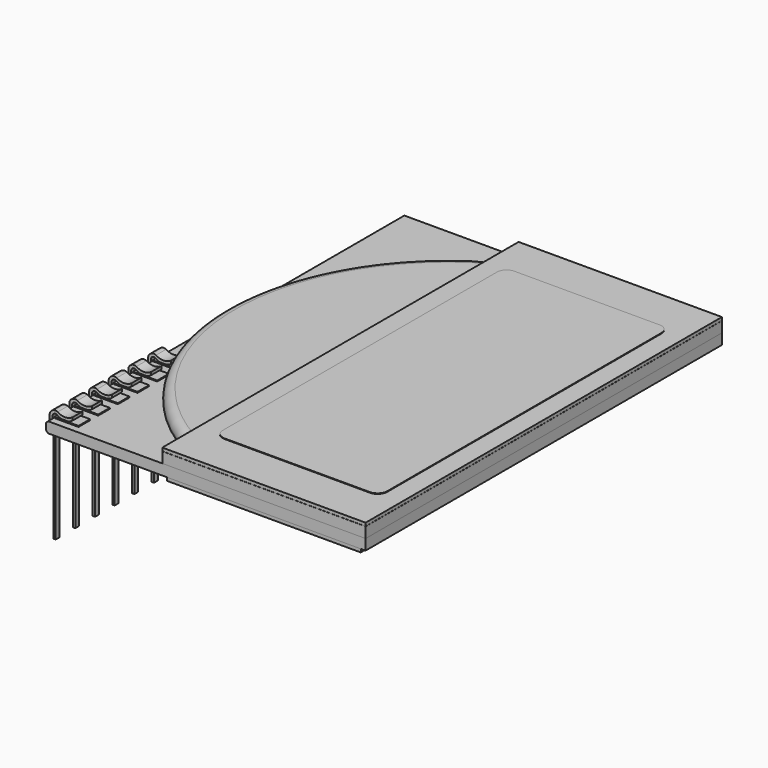
from build123d import *

# Parameters (mm, degrees)
SKETCH_W             = 20
SKETCH_H             = 46
PAD_DEPTH            = 0.33
BOX001_W             = 21
BOX001_H             = 46
BOX001_DEPTH         = 1.1
BOX002_W             = 21
BOX002_H             = 46
BOX002_DEPTH         = 0.33
BOX_W                = 33
BOX_H                = 46
BOX_DEPTH            = 1.1
CHAMFER_SIZE         = 0.2
CHAMFER001_SIZE      = 0.2
BOX003_W             = 25
BOX003_H             = 46
BOX003_DEPTH         = 1.1
CYLINDER_R           = 23
CYLINDER_DEPTH       = 1.1
FILLET_R             = 0.95
BOX011_W             = 0.25
BOX011_H             = 10
BOX011_DEPTH         = 0.48
PAD001_DEPTH         = 1.3
FUSION_ROLL_ANGLE    = 90
BOX012_W             = 2.5
BOX012_H             = 1.5
BOX012_DEPTH         = 0.1
BOX013_W             = 2.5
BOX013_H             = 1.5
BOX013_DEPTH         = 0.1
BOX014_W             = 2.5
BOX014_H             = 1.5
BOX014_DEPTH         = 0.1
BOX015_W             = 2.5
BOX015_H             = 1.5
BOX015_DEPTH         = 0.1
BOX016_W             = 2.5
BOX016_H             = 1.5
BOX016_DEPTH         = 0.1
BOX017_W             = 2.5
BOX017_H             = 1.5
BOX017_DEPTH         = 0.1
BOX018_W             = 0.25
BOX018_H             = 10
BOX018_DEPTH         = 0.48
PAD002_DEPTH         = 1.3
FUSION001_ROLL_ANGLE = 90
BOX019_W             = 0.25
BOX019_H             = 10
BOX019_DEPTH         = 0.48
PAD003_DEPTH         = 1.3
FUSION002_ROLL_ANGLE = 90
BOX020_W             = 0.25
BOX020_H             = 10
BOX020_DEPTH         = 0.48
PAD004_DEPTH         = 1.3
FUSION003_ROLL_ANGLE = 90
BOX021_W             = 0.25
BOX021_H             = 10
BOX021_DEPTH         = 0.48
PAD005_DEPTH         = 1.3
FUSION004_ROLL_ANGLE = 90
BOX022_W             = 0.25
BOX022_H             = 10
BOX022_DEPTH         = 0.48
PAD006_DEPTH         = 1.3
FUSION005_ROLL_ANGLE = 90
BOX023_W             = 0.25
BOX023_H             = 10
BOX023_DEPTH         = 0.48
PAD007_DEPTH         = 1.3
FUSION006_ROLL_ANGLE = 90
BOX024_W             = 8
BOX024_H             = 4
BOX024_DEPTH         = 1.1
FILLET004_R          = 1
FILLET005_R          = 1
BOX010_W             = 17
BOX010_H             = 37.4
BOX010_DEPTH         = 0.33
FILLET001_R          = 1
FILLET002_R          = 1
FILLET003_R          = 1
FILLET006_R          = 1


with BuildPart() as body:
    # Sketch → Pad (new body)
    with BuildSketch(Plane.XY):
        with Locations((22.65, 8.8)):
            Rectangle(SKETCH_W, SKETCH_H)
    extrude(amount=PAD_DEPTH)


with BuildPart() as kub001:
    # Box001 → Box001 (new body)
    with BuildSketch(Plane(origin=(12.15, -14.2, 1.43), x_dir=(1, 0, 0), z_dir=(0, 0, 1))):
        with Locations((10.5, 23)):
            Rectangle(BOX001_W, BOX001_H)
    extrude(amount=BOX001_DEPTH)


with BuildPart() as kub002:
    # Box002 → Box002 (new body)
    with BuildSketch(Plane(origin=(12.15, -14.2, 2.54), x_dir=(1, 0, 0), z_dir=(0, 0, 1))):
        with Locations((10.5, 23)):
            Rectangle(BOX002_W, BOX002_H)
    extrude(amount=BOX002_DEPTH)


with BuildPart() as chamfer001:
    # Box → Box (new body)
    with BuildSketch(Plane(origin=(0.15, -14.2, 0.33), x_dir=(1, 0, 0), z_dir=(0, 0, 1))):
        with Locations((16.5, 23)):
            Rectangle(BOX_W, BOX_H)
    extrude(amount=BOX_DEPTH)

    # Chamfer
    chamfer_edges = [chamfer001.edges().sort_by_distance(p)[0] for p in [
        (0.15, 8.8, 1.43),
    ]]
    chamfer(chamfer_edges, length=CHAMFER_SIZE)

    # Chamfer001
    chamfer001_edges = [chamfer001.edges().sort_by_distance(p)[0] for p in [
        (0.15, 8.8, 0.33),
    ]]
    chamfer(chamfer001_edges, length=CHAMFER001_SIZE)


with BuildPart() as kub003:
    # Box003 → Box003 (new body)
    with BuildSketch(Plane(origin=(-20.85, -14.2, 1.43), x_dir=(1, 0, 0), z_dir=(0, 0, 1))):
        with Locations((12.5, 23)):
            Rectangle(BOX003_W, BOX003_H)
    extrude(amount=BOX003_DEPTH)


with BuildPart() as fillet_body:
    # Cylinder → Cylinder (new body)
    with BuildSketch(Plane(origin=(-19, 8.8, 1.43), x_dir=(1, 0, 0), z_dir=(0, 0, 1))):
        Circle(CYLINDER_R)
    extrude(amount=CYLINDER_DEPTH)

    # Cut: cut Kub003
    add(kub003.part, mode=Mode.SUBTRACT)


with BuildPart() as fillet_body_1:
    # Cut placement: moved
    add(fillet_body.part.moved(Location((42.3, 0, 0))))

    # Fillet
    fillet_edges = [fillet_body_1.edges().sort_by_distance(p)[0] for p in [
        (0.3, 8.8, 2.53),
    ]]
    fillet(fillet_edges, radius=FILLET_R)


with BuildPart() as kub005:
    # Box011 → Box011 (new body)
    with BuildSketch(Plane(origin=(-0.25, -10, 0.41), x_dir=(1, 0, 0), z_dir=(0, 0, 1))):
        with Locations((0.125, 5)):
            Rectangle(BOX011_W, BOX011_H)
    extrude(amount=BOX011_DEPTH)


with BuildPart() as leg001:
    # Sketch001 → Pad001 (new body)
    with BuildSketch(Plane.XY):
        with BuildLine():
            ThreePointArc((0.443549, 1.663427), (0.146808, 1.657939), (0, 1.4))
            Line((0, 1.4), (0, 0.3))
            ThreePointArc((0, 0.3), (0.147056, 0.041914), (0.444055, 0.03685))
            ThreePointArc((2.110557, 0.071899), (1.271182, 0.345553), (0.444055, 0.03685))
            Line((2.110557, 0.071899), (2.110557, -0.228101))
            ThreePointArc((2.110557, -0.228101), (1.347677, 0.016667), (0.584797, -0.228101))
            ThreePointArc((-0.3, 0.3), (-0.007508, -0.215208), (0.584797, -0.228101))
            Line((-0.3, 1.4), (-0.3, 0.3))
            ThreePointArc((0.538531, 1.950548), (-0.029303, 1.901557), (-0.3, 1.4))
            ThreePointArc((0.538531, 1.950548), (1.301411, 1.709185), (2.064291, 1.950548))
            Line((2.064291, 1.950548), (2.064291, 1.650548))
            ThreePointArc((0.443549, 1.663427), (1.251743, 1.383082), (2.064291, 1.650548))
        make_face()
    extrude(amount=PAD001_DEPTH)

    # Fusion: union Kub005
    add(kub005.part)


with BuildPart() as leg001_1:
    # Fusion roll: moved
    add(leg001.part.rotate(Axis((0, 0, 0), (1, 0, 0)), FUSION_ROLL_ANGLE))


with BuildPart() as leg001_2:
    # Fusion placement: moved
    add(leg001_1.part.moved(Location((0.15, 0.63, 0.1))))


with BuildPart() as pad008:
    # Box012 → Box012 (new body)
    with BuildSketch(Plane(origin=(0.4, -0.75, 1.43), x_dir=(1, 0, 0), z_dir=(0, 0, 1))):
        with Locations((1.25, 0.75)):
            Rectangle(BOX012_W, BOX012_H)
    extrude(amount=BOX012_DEPTH)


with BuildPart() as pad009:
    # Box013 → Box013 (new body)
    with BuildSketch(Plane(origin=(0.4, -3.29, 1.43), x_dir=(1, 0, 0), z_dir=(0, 0, 1))):
        with Locations((1.25, 0.75)):
            Rectangle(BOX013_W, BOX013_H)
    extrude(amount=BOX013_DEPTH)


with BuildPart() as pad010:
    # Box014 → Box014 (new body)
    with BuildSketch(Plane(origin=(0.4, -5.83, 1.43), x_dir=(1, 0, 0), z_dir=(0, 0, 1))):
        with Locations((1.25, 0.75)):
            Rectangle(BOX014_W, BOX014_H)
    extrude(amount=BOX014_DEPTH)


with BuildPart() as pad011:
    # Box015 → Box015 (new body)
    with BuildSketch(Plane(origin=(0.4, -8.37, 1.43), x_dir=(1, 0, 0), z_dir=(0, 0, 1))):
        with Locations((1.25, 0.75)):
            Rectangle(BOX015_W, BOX015_H)
    extrude(amount=BOX015_DEPTH)


with BuildPart() as pad012:
    # Box016 → Box016 (new body)
    with BuildSketch(Plane(origin=(0.4, -10.91, 1.43), x_dir=(1, 0, 0), z_dir=(0, 0, 1))):
        with Locations((1.25, 0.75)):
            Rectangle(BOX016_W, BOX016_H)
    extrude(amount=BOX016_DEPTH)


with BuildPart() as pad013:
    # Box017 → Box017 (new body)
    with BuildSketch(Plane(origin=(0.4, -13.45, 1.43), x_dir=(1, 0, 0), z_dir=(0, 0, 1))):
        with Locations((1.25, 0.75)):
            Rectangle(BOX017_W, BOX017_H)
    extrude(amount=BOX017_DEPTH)


with BuildPart() as kub006:
    # Box018 → Box018 (new body)
    with BuildSketch(Plane(origin=(-0.25, -10, 0.41), x_dir=(1, 0, 0), z_dir=(0, 0, 1))):
        with Locations((0.125, 5)):
            Rectangle(BOX018_W, BOX018_H)
    extrude(amount=BOX018_DEPTH)


with BuildPart() as leg002:
    # Sketch002 → Pad002 (new body)
    with BuildSketch(Plane.XY):
        with BuildLine():
            ThreePointArc((0.443549, 1.663427), (0.146808, 1.657939), (0, 1.4))
            Line((0, 1.4), (0, 0.3))
            ThreePointArc((0, 0.3), (0.147056, 0.041914), (0.444055, 0.03685))
            ThreePointArc((2.110557, 0.071899), (1.271182, 0.345553), (0.444055, 0.03685))
            Line((2.110557, 0.071899), (2.110557, -0.228101))
            ThreePointArc((2.110557, -0.228101), (1.347677, 0.016667), (0.584797, -0.228101))
            ThreePointArc((-0.3, 0.3), (-0.007508, -0.215208), (0.584797, -0.228101))
            Line((-0.3, 1.4), (-0.3, 0.3))
            ThreePointArc((0.538531, 1.950548), (-0.029303, 1.901557), (-0.3, 1.4))
            ThreePointArc((0.538531, 1.950548), (1.301411, 1.709185), (2.064291, 1.950548))
            Line((2.064291, 1.950548), (2.064291, 1.650548))
            ThreePointArc((0.443549, 1.663427), (1.251743, 1.383082), (2.064291, 1.650548))
        make_face()
    extrude(amount=PAD002_DEPTH)

    # Fusion001: union Kub006
    add(kub006.part)


with BuildPart() as leg002_1:
    # Fusion001 roll: moved
    add(leg002.part.rotate(Axis((0, 0, 0), (1, 0, 0)), FUSION001_ROLL_ANGLE))


with BuildPart() as leg002_2:
    # Fusion001 placement: moved
    add(leg002_1.part.moved(Location((0.15, -1.91, 0.1))))


with BuildPart() as kub007:
    # Box019 → Box019 (new body)
    with BuildSketch(Plane(origin=(-0.25, -10, 0.41), x_dir=(1, 0, 0), z_dir=(0, 0, 1))):
        with Locations((0.125, 5)):
            Rectangle(BOX019_W, BOX019_H)
    extrude(amount=BOX019_DEPTH)


with BuildPart() as leg003:
    # Sketch003 → Pad003 (new body)
    with BuildSketch(Plane.XY):
        with BuildLine():
            ThreePointArc((0.443549, 1.663427), (0.146808, 1.657939), (0, 1.4))
            Line((0, 1.4), (0, 0.3))
            ThreePointArc((0, 0.3), (0.147056, 0.041914), (0.444055, 0.03685))
            ThreePointArc((2.110557, 0.071899), (1.271182, 0.345553), (0.444055, 0.03685))
            Line((2.110557, 0.071899), (2.110557, -0.228101))
            ThreePointArc((2.110557, -0.228101), (1.347677, 0.016667), (0.584797, -0.228101))
            ThreePointArc((-0.3, 0.3), (-0.007508, -0.215208), (0.584797, -0.228101))
            Line((-0.3, 1.4), (-0.3, 0.3))
            ThreePointArc((0.538531, 1.950548), (-0.029303, 1.901557), (-0.3, 1.4))
            ThreePointArc((0.538531, 1.950548), (1.301411, 1.709185), (2.064291, 1.950548))
            Line((2.064291, 1.950548), (2.064291, 1.650548))
            ThreePointArc((0.443549, 1.663427), (1.251743, 1.383082), (2.064291, 1.650548))
        make_face()
    extrude(amount=PAD003_DEPTH)

    # Fusion002: union Kub007
    add(kub007.part)


with BuildPart() as leg003_1:
    # Fusion002 roll: moved
    add(leg003.part.rotate(Axis((0, 0, 0), (1, 0, 0)), FUSION002_ROLL_ANGLE))


with BuildPart() as leg003_2:
    # Fusion002 placement: moved
    add(leg003_1.part.moved(Location((0.15, 0.63, 0.1))))


with BuildPart() as kub008:
    # Box020 → Box020 (new body)
    with BuildSketch(Plane(origin=(-0.25, -10, 0.41), x_dir=(1, 0, 0), z_dir=(0, 0, 1))):
        with Locations((0.125, 5)):
            Rectangle(BOX020_W, BOX020_H)
    extrude(amount=BOX020_DEPTH)


with BuildPart() as leg004:
    # Sketch004 → Pad004 (new body)
    with BuildSketch(Plane.XY):
        with BuildLine():
            ThreePointArc((0.443549, 1.663427), (0.146808, 1.657939), (0, 1.4))
            Line((0, 1.4), (0, 0.3))
            ThreePointArc((0, 0.3), (0.147056, 0.041914), (0.444055, 0.03685))
            ThreePointArc((2.110557, 0.071899), (1.271182, 0.345553), (0.444055, 0.03685))
            Line((2.110557, 0.071899), (2.110557, -0.228101))
            ThreePointArc((2.110557, -0.228101), (1.347677, 0.016667), (0.584797, -0.228101))
            ThreePointArc((-0.3, 0.3), (-0.007508, -0.215208), (0.584797, -0.228101))
            Line((-0.3, 1.4), (-0.3, 0.3))
            ThreePointArc((0.538531, 1.950548), (-0.029303, 1.901557), (-0.3, 1.4))
            ThreePointArc((0.538531, 1.950548), (1.301411, 1.709185), (2.064291, 1.950548))
            Line((2.064291, 1.950548), (2.064291, 1.650548))
            ThreePointArc((0.443549, 1.663427), (1.251743, 1.383082), (2.064291, 1.650548))
        make_face()
    extrude(amount=PAD004_DEPTH)

    # Fusion003: union Kub008
    add(kub008.part)


with BuildPart() as leg004_1:
    # Fusion003 roll: moved
    add(leg004.part.rotate(Axis((0, 0, 0), (1, 0, 0)), FUSION003_ROLL_ANGLE))


with BuildPart() as leg004_2:
    # Fusion003 placement: moved
    add(leg004_1.part.moved(Location((0.15, -4.45, 0.1))))


with BuildPart() as kub009:
    # Box021 → Box021 (new body)
    with BuildSketch(Plane(origin=(-0.25, -10, 0.41), x_dir=(1, 0, 0), z_dir=(0, 0, 1))):
        with Locations((0.125, 5)):
            Rectangle(BOX021_W, BOX021_H)
    extrude(amount=BOX021_DEPTH)


with BuildPart() as leg005:
    # Sketch005 → Pad005 (new body)
    with BuildSketch(Plane.XY):
        with BuildLine():
            ThreePointArc((0.443549, 1.663427), (0.146808, 1.657939), (0, 1.4))
            Line((0, 1.4), (0, 0.3))
            ThreePointArc((0, 0.3), (0.147056, 0.041914), (0.444055, 0.03685))
            ThreePointArc((2.110557, 0.071899), (1.271182, 0.345553), (0.444055, 0.03685))
            Line((2.110557, 0.071899), (2.110557, -0.228101))
            ThreePointArc((2.110557, -0.228101), (1.347677, 0.016667), (0.584797, -0.228101))
            ThreePointArc((-0.3, 0.3), (-0.007508, -0.215208), (0.584797, -0.228101))
            Line((-0.3, 1.4), (-0.3, 0.3))
            ThreePointArc((0.538531, 1.950548), (-0.029303, 1.901557), (-0.3, 1.4))
            ThreePointArc((0.538531, 1.950548), (1.301411, 1.709185), (2.064291, 1.950548))
            Line((2.064291, 1.950548), (2.064291, 1.650548))
            ThreePointArc((0.443549, 1.663427), (1.251743, 1.383082), (2.064291, 1.650548))
        make_face()
    extrude(amount=PAD005_DEPTH)

    # Fusion004: union Kub009
    add(kub009.part)


with BuildPart() as leg005_1:
    # Fusion004 roll: moved
    add(leg005.part.rotate(Axis((0, 0, 0), (1, 0, 0)), FUSION004_ROLL_ANGLE))


with BuildPart() as leg005_2:
    # Fusion004 placement: moved
    add(leg005_1.part.moved(Location((0.15, -6.99, 0.1))))


with BuildPart() as kub010:
    # Box022 → Box022 (new body)
    with BuildSketch(Plane(origin=(-0.25, -10, 0.41), x_dir=(1, 0, 0), z_dir=(0, 0, 1))):
        with Locations((0.125, 5)):
            Rectangle(BOX022_W, BOX022_H)
    extrude(amount=BOX022_DEPTH)


with BuildPart() as leg006:
    # Sketch006 → Pad006 (new body)
    with BuildSketch(Plane.XY):
        with BuildLine():
            ThreePointArc((0.443549, 1.663427), (0.146808, 1.657939), (0, 1.4))
            Line((0, 1.4), (0, 0.3))
            ThreePointArc((0, 0.3), (0.147056, 0.041914), (0.444055, 0.03685))
            ThreePointArc((2.110557, 0.071899), (1.271182, 0.345553), (0.444055, 0.03685))
            Line((2.110557, 0.071899), (2.110557, -0.228101))
            ThreePointArc((2.110557, -0.228101), (1.347677, 0.016667), (0.584797, -0.228101))
            ThreePointArc((-0.3, 0.3), (-0.007508, -0.215208), (0.584797, -0.228101))
            Line((-0.3, 1.4), (-0.3, 0.3))
            ThreePointArc((0.538531, 1.950548), (-0.029303, 1.901557), (-0.3, 1.4))
            ThreePointArc((0.538531, 1.950548), (1.301411, 1.709185), (2.064291, 1.950548))
            Line((2.064291, 1.950548), (2.064291, 1.650548))
            ThreePointArc((0.443549, 1.663427), (1.251743, 1.383082), (2.064291, 1.650548))
        make_face()
    extrude(amount=PAD006_DEPTH)

    # Fusion005: union Kub010
    add(kub010.part)


with BuildPart() as leg006_1:
    # Fusion005 roll: moved
    add(leg006.part.rotate(Axis((0, 0, 0), (1, 0, 0)), FUSION005_ROLL_ANGLE))


with BuildPart() as leg006_2:
    # Fusion005 placement: moved
    add(leg006_1.part.moved(Location((0.15, -9.53, 0.1))))


with BuildPart() as kub011:
    # Box023 → Box023 (new body)
    with BuildSketch(Plane(origin=(-0.25, -10, 0.41), x_dir=(1, 0, 0), z_dir=(0, 0, 1))):
        with Locations((0.125, 5)):
            Rectangle(BOX023_W, BOX023_H)
    extrude(amount=BOX023_DEPTH)


with BuildPart() as leg007:
    # Sketch007 → Pad007 (new body)
    with BuildSketch(Plane.XY):
        with BuildLine():
            ThreePointArc((0.443549, 1.663427), (0.146808, 1.657939), (0, 1.4))
            Line((0, 1.4), (0, 0.3))
            ThreePointArc((0, 0.3), (0.147056, 0.041914), (0.444055, 0.03685))
            ThreePointArc((2.110557, 0.071899), (1.271182, 0.345553), (0.444055, 0.03685))
            Line((2.110557, 0.071899), (2.110557, -0.228101))
            ThreePointArc((2.110557, -0.228101), (1.347677, 0.016667), (0.584797, -0.228101))
            ThreePointArc((-0.3, 0.3), (-0.007508, -0.215208), (0.584797, -0.228101))
            Line((-0.3, 1.4), (-0.3, 0.3))
            ThreePointArc((0.538531, 1.950548), (-0.029303, 1.901557), (-0.3, 1.4))
            ThreePointArc((0.538531, 1.950548), (1.301411, 1.709185), (2.064291, 1.950548))
            Line((2.064291, 1.950548), (2.064291, 1.650548))
            ThreePointArc((0.443549, 1.663427), (1.251743, 1.383082), (2.064291, 1.650548))
        make_face()
    extrude(amount=PAD007_DEPTH)

    # Fusion006: union Kub011
    add(kub011.part)


with BuildPart() as leg007_1:
    # Fusion006 roll: moved
    add(leg007.part.rotate(Axis((0, 0, 0), (1, 0, 0)), FUSION006_ROLL_ANGLE))


with BuildPart() as leg007_2:
    # Fusion006 placement: moved
    add(leg007_1.part.moved(Location((0.15, -12.07, 0.1))))


with BuildPart() as fillet005:
    # Box024 → Box024 (new body)
    with BuildSketch(Plane(origin=(0, 29, 0.33), x_dir=(1, 0, 0), z_dir=(0, 0, 1))):
        with Locations((4, 2)):
            Rectangle(BOX024_W, BOX024_H)
    extrude(amount=BOX024_DEPTH)

    # Fillet004
    fillet004_edges = [fillet005.edges().sort_by_distance(p)[0] for p in [
        (8, 33, 0.88),
    ]]
    fillet(fillet004_edges, radius=FILLET004_R)

    # Fillet005
    fillet005_edges = [fillet005.edges().sort_by_distance(p)[0] for p in [
        (0, 33, 0.88),
    ]]
    fillet(fillet005_edges, radius=FILLET005_R)


with BuildPart() as fillet005_1:
    # Fillet005 placement: moved
    add(fillet005.part.moved(Location((17, -0.3, 0))))


with BuildPart() as fillet006:
    # Box010 → Box010 (new body)
    with BuildSketch(Plane(origin=(14.15, -9.9, 2.6), x_dir=(1, 0, 0), z_dir=(0, 0, 1))):
        with Locations((8.5, 18.7)):
            Rectangle(BOX010_W, BOX010_H)
    extrude(amount=BOX010_DEPTH)

    # Fillet001
    fillet001_edges = [fillet006.edges().sort_by_distance(p)[0] for p in [
        (14.15, -9.9, 2.765),
    ]]
    fillet(fillet001_edges, radius=FILLET001_R)

    # Fillet002
    fillet002_edges = [fillet006.edges().sort_by_distance(p)[0] for p in [
        (31.15, -9.9, 2.765),
    ]]
    fillet(fillet002_edges, radius=FILLET002_R)

    # Fillet003
    fillet003_edges = [fillet006.edges().sort_by_distance(p)[0] for p in [
        (14.15, 27.5, 2.765),
    ]]
    fillet(fillet003_edges, radius=FILLET003_R)

    # Fillet006
    fillet006_edges = [fillet006.edges().sort_by_distance(p)[0] for p in [
        (31.15, 27.5, 2.765),
    ]]
    fillet(fillet006_edges, radius=FILLET006_R)


solid = Compound([body.part, kub001.part, kub002.part, chamfer001.part, fillet_body_1.part, leg001_2.part, pad008.part, pad009.part, pad010.part, pad011.part, pad012.part, pad013.part, leg002_2.part, leg003_2.part, leg004_2.part, leg005_2.part, leg006_2.part, leg007_2.part, fillet005_1.part, fillet006.part])
